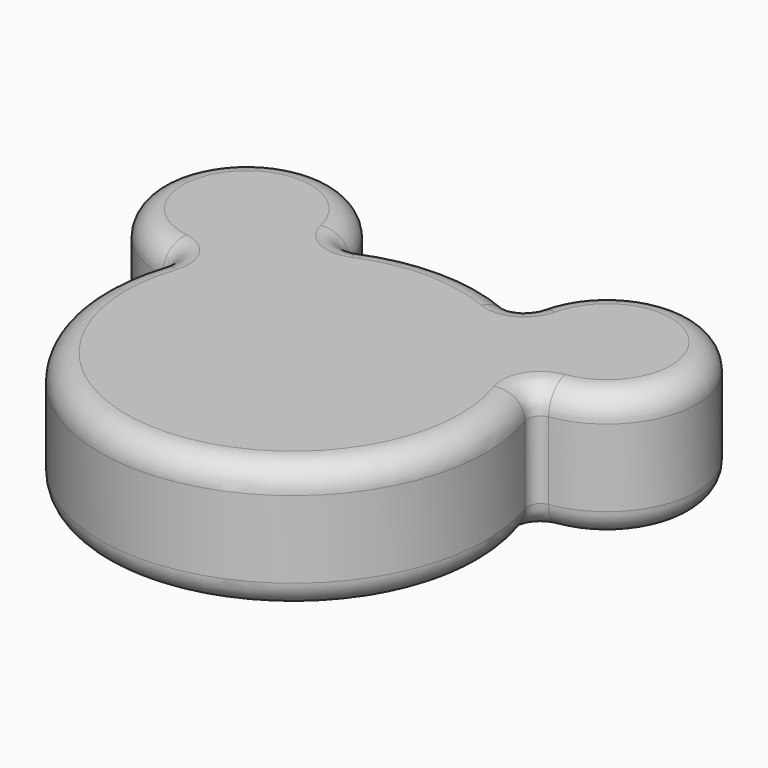
from build123d import *

# Parameters (mm, degrees)
F1_DEPTH = 25.4
F2_R     = 2.54
F3_R     = 5.08


with BuildPart() as f1:
    # F0 (on Top) → F1 (new body)
    with BuildSketch(Plane.XY):
        with BuildLine():
            ThreePointArc((-17.792637, 33.690237), (-48.589068, 45.118421), (-34.914103, 15.251736))
            ThreePointArc((-34.914103, 15.251736), (0, -38.1), (34.914103, 15.251736))
            ThreePointArc((34.914103, 15.251736), (48.589068, 45.118421), (17.792637, 33.690237))
            ThreePointArc((17.792637, 33.690237), (0, 38.1), (-17.792637, 33.690237))
        make_face()
    extrude(amount=F1_DEPTH)

    # F2
    f2_edges = [f1.edges().sort_by_distance(p)[0] for p in [
        (-34.914103, 15.251736, 12.7),
        (-17.792637, 33.690237, 12.7),
        (17.792637, 33.690237, 12.7),
        (34.914103, 15.251736, 12.7),
    ]]
    fillet(f2_edges, radius=F2_R)

    # F3
    f3_edges = [f1.edges().sort_by_distance(p)[0] for p in [
        (0, -38.1, 25.4),
        (0, -38.1, 0),
    ]]
    fillet(f3_edges, radius=F3_R)


solid = f1.part
